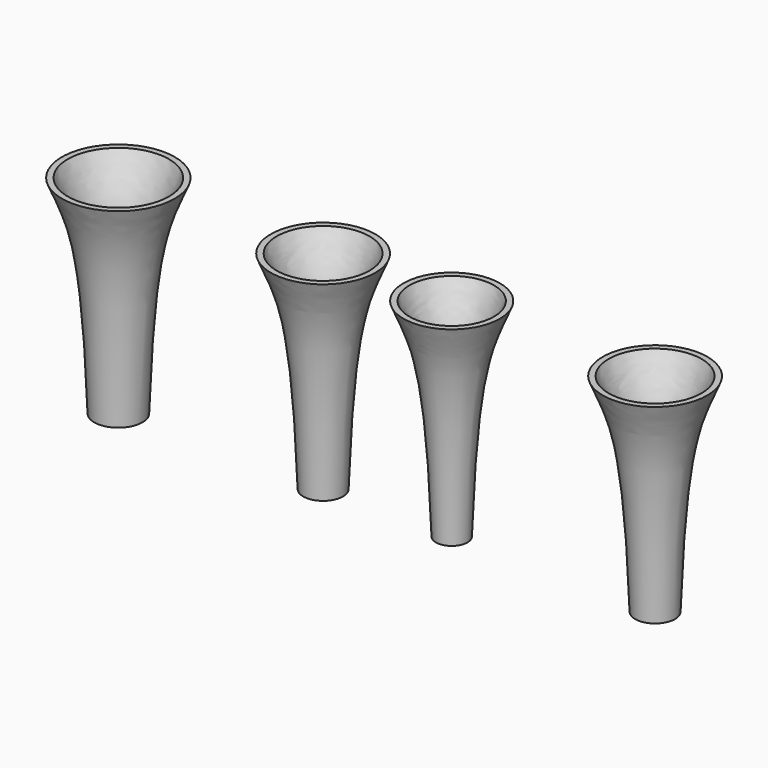
from build123d import *


with BuildPart() as f1:
    # F0 (on Front) → F1 (revolve)
    with BuildSketch(Plane.XZ):
        with BuildLine():
            add(Edge.make_bspline(
                [(4.318, 0), (5.318686, 46.431541), (9.196555, 51.132828), (14.224, 63.5)],
                knots=[0, 0, 0, 0, 64.268023, 64.268023, 64.268023, 64.268023], degree=3))
            Line((4.318, 0), (6.096, 0))
            add(Edge.make_bspline(
                [(6.096, 0), (7.724741, 46.869006), (10.974555, 51.132828), (16.002, 63.5)],
                knots=[0, 0, 0, 0, 64.268023, 64.268023, 64.268023, 64.268023], degree=3))
            Line((16.002, 63.5), (14.224, 63.5))
        make_face()
    revolve(axis=Axis((0, 0, 50.806185), (0, 0, 1)))


with BuildPart() as f3:
    # F2 (on Front) → F3 (revolve)
    with BuildSketch(Plane.XZ):
        with BuildLine():
            add(Edge.make_bspline(
                [(-57.080175, 0), (-56.079489, 46.431541), (-52.20162, 51.132828), (-47.174175, 63.5)],
                knots=[0, 0, 0, 0, 64.268023, 64.268023, 64.268023, 64.268023], degree=3))
            Line((-57.080175, 0), (-55.302175, 0))
            add(Edge.make_bspline(
                [(-55.302175, 0), (-53.673435, 46.869006), (-50.42362, 51.132828), (-45.396175, 63.5)],
                knots=[0, 0, 0, 0, 64.268023, 64.268023, 64.268023, 64.268023], degree=3))
            Line((-45.396175, 63.5), (-47.174175, 63.5))
        make_face()
    revolve(axis=Axis((-62.668175, 0, 16.114701), (0, 0, 1)))


with BuildPart() as f5:
    # F4 (on Front) → F5 (revolve)
    with BuildSketch(Plane.XZ):
        with BuildLine():
            add(Edge.make_bspline(
                [(42.406426, 0), (43.407112, 46.431541), (47.284981, 51.132828), (52.312426, 63.5)],
                knots=[0, 0, 0, 0, 64.268023, 64.268023, 64.268023, 64.268023], degree=3))
            Line((42.406426, 0), (44.184426, 0))
            add(Edge.make_bspline(
                [(44.184426, 0), (45.813167, 46.869006), (49.062981, 51.132828), (54.090426, 63.5)],
                knots=[0, 0, 0, 0, 64.268023, 64.268023, 64.268023, 64.268023], degree=3))
            Line((54.090426, 63.5), (52.312426, 63.5))
        make_face()
        with BuildLine():
            add(Edge.make_bspline(
                [(42.406426, 0), (43.407112, 46.431541), (47.284981, 51.132828), (52.312426, 63.5)],
                knots=[0, 0, 0, 0, 64.268023, 64.268023, 64.268023, 64.268023], degree=3))
            Line((42.406426, 0), (44.184426, 0))
            add(Edge.make_bspline(
                [(44.184426, 0), (45.813167, 46.869006), (49.062981, 51.132828), (54.090426, 63.5)],
                knots=[0, 0, 0, 0, 64.268023, 64.268023, 64.268023, 64.268023], degree=3))
            Line((54.090426, 63.5), (52.312426, 63.5))
        make_face()
    revolve(axis=Axis((39.358426, 0, 16.114701), (0, 0, 1)))


with BuildPart() as f6_1:
    # F6: copy of F1
    add(f1.part.moved(Location((101.6, 0, 0))))


solid = Compound([f1.part, f3.part, f5.part, f6_1.part])
